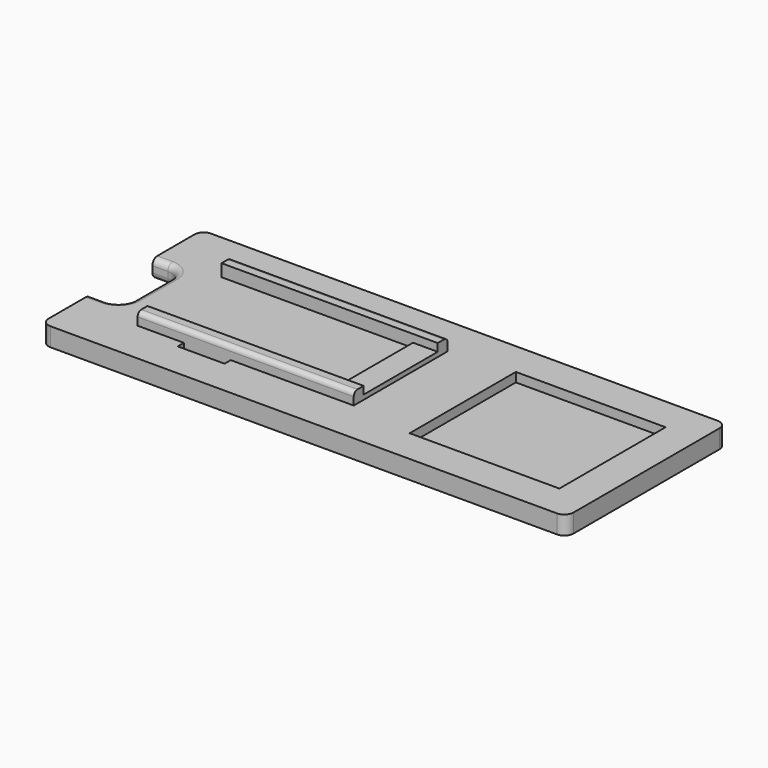
from build123d import *

# Parameters (mm, degrees)
F0_W        = 170
F0_H        = 6
F1_DEPTH    = 65
F2_W        = 48.5
F2_H        = 43
F3_DEPTH    = 3
F4_W        = 70
F4_H        = 4
F5_DEPTH    = 4
F6_W        = 69.1558677684
F6_H        = 4
F6_W_2      = 69.5469340682
F6_H_2      = 6
F7_DEPTH    = 30
F8_W        = 5
F8_H        = 30
F9_DEPTH    = 20
F10_SIZE2   = 18
F10_SIZE    = 28
F10_2_SIZE2 = 18
F10_2_SIZE  = 28
F11_W       = 14.7919125855
F11_H       = 2.5
F11_W_2     = 15.1694379747
F12_DEPTH   = 36.001
F13_R       = 10
F14_R       = 1.5
F15_R       = 1.5
F16_R       = 3
F18_DEPTH   = 119.5479340682
F20_D       = 4
F21_W       = 10
F21_H       = 25
F22_DEPTH   = 25
F23_R       = 5
F24_R       = 2
F25_R       = 2
F26_R       = 1.5
F27_W       = 8
F27_H       = 30
F28_DEPTH   = 1.5


with BuildPart() as f1:
    # F0 (on Front) → F1 (new body)
    with BuildSketch(Plane.XZ):
        Rectangle(F0_W, F0_H)
    extrude(amount=F1_DEPTH)

    # F2 (on face) → F3 (cut)
    with BuildSketch(Plane.XY.offset(3)):
        with Locations((49.75, -32.5)):
            Rectangle(F2_W, F2_H)
    extrude(amount=-F3_DEPTH, mode=Mode.SUBTRACT)

    # F4 (on face) → F5 (join)
    with BuildSketch(Plane.XY.offset(3)):
        with Locations((-30, -15)):
            Rectangle(F4_W, F4_H)
        with Locations((-30, -49)):
            Rectangle(F4_W, F4_H)
    extrude(amount=F5_DEPTH)

    # F6 (on face) → F7 (join)
    with BuildSketch(Plane(origin=(0, 0, -3), x_dir=(1, 0, 0), z_dir=(0, 0, -1))):
        with Locations((-0.030999816, 14.5)):
            Rectangle(F6_W, F6_H)
        with Locations((-0.2265329659, 3)):
            Rectangle(F6_W_2, F6_H_2)
    extrude(amount=F7_DEPTH)

    # F8 (on face) → F9 (join)
    with BuildSketch(Plane.XZ.offset(16.5)):
        with Locations((-32.1089337002, -18)):
            Rectangle(F8_W, F8_H)
        with Locations((32.0469340682, -18)):
            Rectangle(F8_W, F8_H)
    extrude(amount=F9_DEPTH)

    # F10
    f10_edges = [f1.edges().sort_by_distance(p)[0] for p in [
        (-32.108934, -36.5, -33),
    ]]
    f10_side = f1.faces().sort_by_distance((-32.108934, -36.5, -18))[0]
    chamfer(f10_edges, length=F10_SIZE, length2=F10_SIZE2, reference=f10_side)

    # F10#2
    f10_2_edges = [f1.edges().sort_by_distance(p)[0] for p in [
        (32.046934, -36.5, -33),
    ]]
    f10_2_side = f1.faces().sort_by_distance((32.046934, -36.5, -18))[0]
    chamfer(f10_2_edges, length=F10_2_SIZE, length2=F10_2_SIZE2, reference=f10_2_side)

    # F11 (on face) → F12 (cut, through all)
    with BuildSketch(Plane.XY.offset(3)):
        with Locations((-42.6040437073, -11.75)):
            Rectangle(F11_W, F11_H)
        with Locations((-42.4152810127, -52.25)):
            Rectangle(F11_W_2, F11_H)
    extrude(amount=-F12_DEPTH, mode=Mode.SUBTRACT)

    # F13
    f13_edges = [f1.edges().sort_by_distance(p)[0] for p in [
        (-35, -3, -33),
        (34.546934, -3, -33),
    ]]
    fillet(f13_edges, radius=F13_R)

    # F14
    f14_edges = [f1.edges().sort_by_distance(p)[0] for p in [
        (-34.608934, -12.5, -18),
        (34.546934, -12.5, -18),
        (-0.031, -12.5, -33),
    ]]
    fillet(f14_edges, radius=F14_R)

    # F15
    f15_edges = [f1.edges().sort_by_distance(p)[0] for p in [
        (34.546934, -6, -13),
        (31.618002, -6, -30.071068),
        (-0.226533, -6, -33),
        (-32.071068, -6, -30.071068),
        (-35, -6, -13),
    ]]
    fillet(f15_edges, radius=F15_R)

    # F16
    f16_edges = [f1.edges().sort_by_distance(p)[0] for p in [
        (-85, -65, 0),
        (-85, 0, 0),
        (85, 0, 0),
        (85, -65, 0),
    ]]
    fillet(f16_edges, radius=F16_R)

    # F17 (on face) → F18 (cut, through all)
    with BuildSketch(Plane.YZ.offset(34.5469340682)):
        with BuildLine():
            Line((-18.5, -33), (-16.25, -33))
            ThreePointArc((-16.25, -33), (-21.5712447444, -15.5258555741), (-36.5, -5))
            Line((-36.5, -5), (-18.5, -33))
        make_face()
    extrude(amount=-F18_DEPTH, mode=Mode.SUBTRACT)

    # F20 (through all)
    with Locations(Plane(origin=(0, 0, 0), x_dir=(-1, 0, 0), z_dir=(0, 1, 0))):
        with Locations((0, -12.6412017271)):
            Hole(F20_D / 2)

    # F21 (on face) → F22 (cut)
    with BuildSketch(Plane.XY.offset(3)):
        with Locations((-80, -32.5)):
            Rectangle(F21_W, F21_H)
    extrude(amount=-F22_DEPTH, mode=Mode.SUBTRACT)

    # F23
    f23_edges = [f1.edges().sort_by_distance(p)[0] for p in [
        (-75, -20, 0),
        (-75, -45, 0),
    ]]
    fillet(f23_edges, radius=F23_R)

    # F24
    f24_edges = [f1.edges().sort_by_distance(p)[0] for p in [
        (-75, -32.5, 3),
        (-76.464466, -21.464466, 3),
        (-82.5, -20, 3),
        (-76.464466, -43.535534, 3),
        (-82.5, -45, 3),
    ]]
    fillet(f24_edges, radius=F24_R)

    # F25
    f25_edges = [f1.edges().sort_by_distance(p)[0] for p in [
        (-82.5, -45, -3),
        (-76.464466, -43.535534, -3),
        (-75, -32.5, -3),
        (-76.464466, -21.464466, -3),
        (-82.5, -20, -3),
    ]]
    fillet(f25_edges, radius=F25_R)

    # F26
    f26_edges = [f1.edges().sort_by_distance(p)[0] for p in [
        (-30, -13, 7),
        (-30, -51, 7),
    ]]
    fillet(f26_edges, radius=F26_R)

    # F27 (on face) → F28 (join)
    with BuildSketch(Plane.XY.offset(3)):
        with Locations((1, -32)):
            Rectangle(F27_W, F27_H)
    extrude(amount=F28_DEPTH)


solid = f1.part
